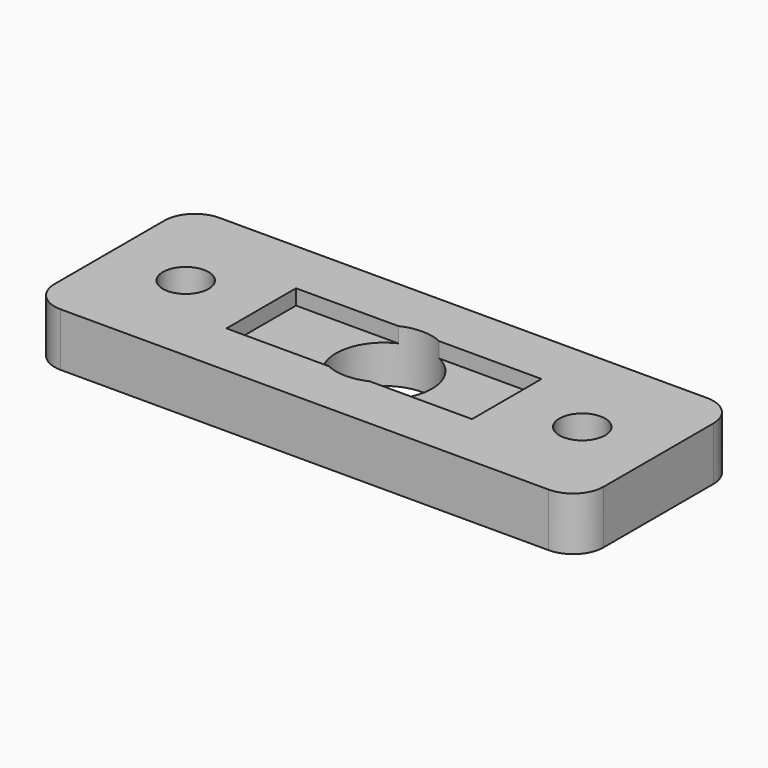
from build123d import *

# Parameters (mm, degrees)
F0_W     = 36
F0_H     = 13
F0_R     = 1.5
F1_DEPTH = 3.5
F2_R     = 2
F4_DEPTH = 1


with BuildPart() as f1:
    # F0 (on Top) → F1 (new body)
    with BuildSketch(Plane.XY):
        Rectangle(F0_W, F0_H)
        with Locations((-13, 0)):
            Circle(F0_R, mode=Mode.SUBTRACT)
        with BuildLine():
            ThreePointArc((3.15, 0), (0, -3.15), (-3.15, 0))
            ThreePointArc((-3.15, 0), (0, 3.15), (3.15, 0))
        make_face(mode=Mode.SUBTRACT)
        with BuildLine():
            ThreePointArc((14.5, 0), (13, -1.5), (11.5, 0))
            ThreePointArc((11.5, 0), (13, 1.5), (14.5, 0))
        make_face(mode=Mode.SUBTRACT)
    extrude(amount=F1_DEPTH)

    # F2
    f2_edges = [f1.edges().sort_by_distance(p)[0] for p in [
        (-18, 6.5, 1.75),
        (-18, -6.5, 1.75),
        (18, -6.5, 1.75),
        (18, 6.5, 1.75),
    ]]
    fillet(f2_edges, radius=F2_R)

    # F3 (on face) → F4 (cut)
    with BuildSketch(Plane.XY.offset(3.5)):
        with BuildLine():
            Line((-1.3416407865, 2.85), (-8.05, 2.85))
            Line((-8.05, 2.85), (-8.05, -2.85))
            Line((-8.05, -2.85), (-1.3416407865, -2.85))
            ThreePointArc((-1.3416407865, -2.85), (-3.15, 0), (-1.3416407865, 2.85))
        make_face()
        with BuildLine():
            Line((1.3416407865, 2.85), (-1.3416407865, 2.85))
            ThreePointArc((-1.3416407865, 2.85), (-3.15, 0), (-1.3416407865, -2.85))
            Line((-1.3416407865, -2.85), (1.3416407865, -2.85))
            ThreePointArc((1.3416407865, -2.85), (2.6597620643, -1.6876509595), (3.15, 0))
            ThreePointArc((3.15, 0), (2.6597620643, 1.6876509595), (1.3416407865, 2.85))
        make_face()
        with BuildLine():
            Line((8.05, 2.85), (1.3416407865, 2.85))
            ThreePointArc((1.3416407865, 2.85), (2.6597620643, 1.6876509595), (3.15, 0))
            ThreePointArc((3.15, 0), (2.6597620643, -1.6876509595), (1.3416407865, -2.85))
            Line((1.3416407865, -2.85), (8.05, -2.85))
            Line((8.05, -2.85), (8.05, 2.85))
        make_face()
    extrude(amount=-F4_DEPTH, mode=Mode.SUBTRACT)


solid = f1.part
